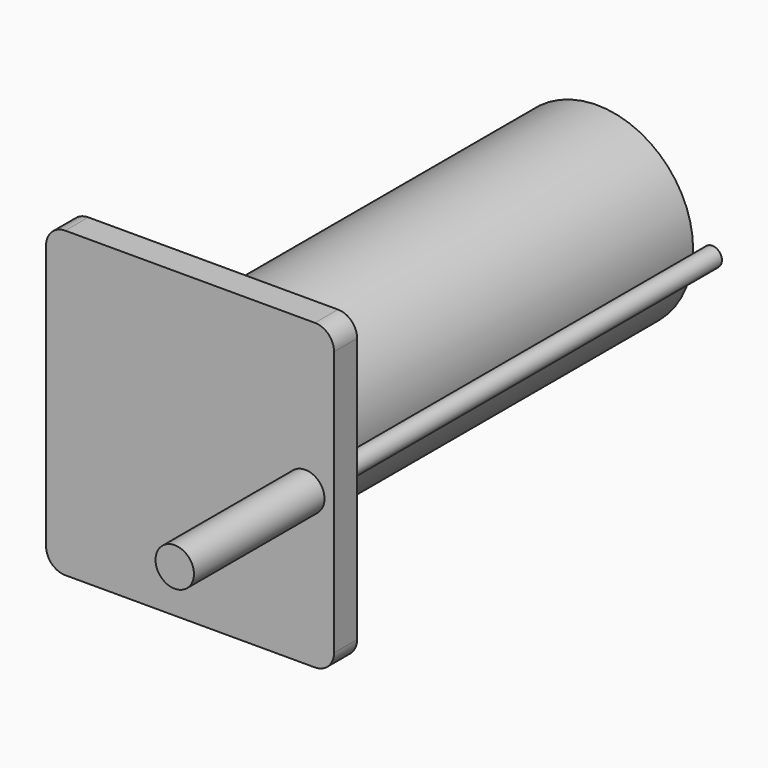
from build123d import *

# Parameters (mm, degrees)
F0_W     = 150
F0_H     = 158
F1_DEPTH = 15
F2_R     = 50
F2_R_2   = 45
F3_DEPTH = 250
F4_R     = 5
F4_R_2   = 3.5
F5_DEPTH = 250
F6_R     = 10
F7_R     = 10
F8_DEPTH = 100


with BuildPart() as f1:
    # F0 (on Front) → F1 (new body)
    with BuildSketch(Plane.XZ):
        Rectangle(F0_W, F0_H)
    extrude(amount=F1_DEPTH)

    # F2 (on Front) → F3 (join)
    with BuildSketch(Plane.XZ):
        Circle(F2_R)
        Circle(F2_R_2, mode=Mode.SUBTRACT)
    extrude(amount=-F3_DEPTH)

    # F4 (on Front) → F5 (join)
    with BuildSketch(Plane.XZ):
        with Locations((60, 0)):
            Circle(F4_R)
        with Locations((60, 0)):
            Circle(F4_R_2, mode=Mode.SUBTRACT)
    extrude(amount=-F5_DEPTH)

    # F6
    f6_edges = [f1.edges().sort_by_distance(p)[0] for p in [
        (75, -7.5, 79),
        (-75, -7.5, 79),
        (-75, -7.5, -79),
        (75, -7.5, -79),
    ]]
    fillet(f6_edges, radius=F6_R)

    # F7 (on Front) → F8 (join)
    with BuildSketch(Plane.XZ):
        with Locations((60, 0)):
            Circle(F7_R)
    extrude(amount=F8_DEPTH)


solid = f1.part
